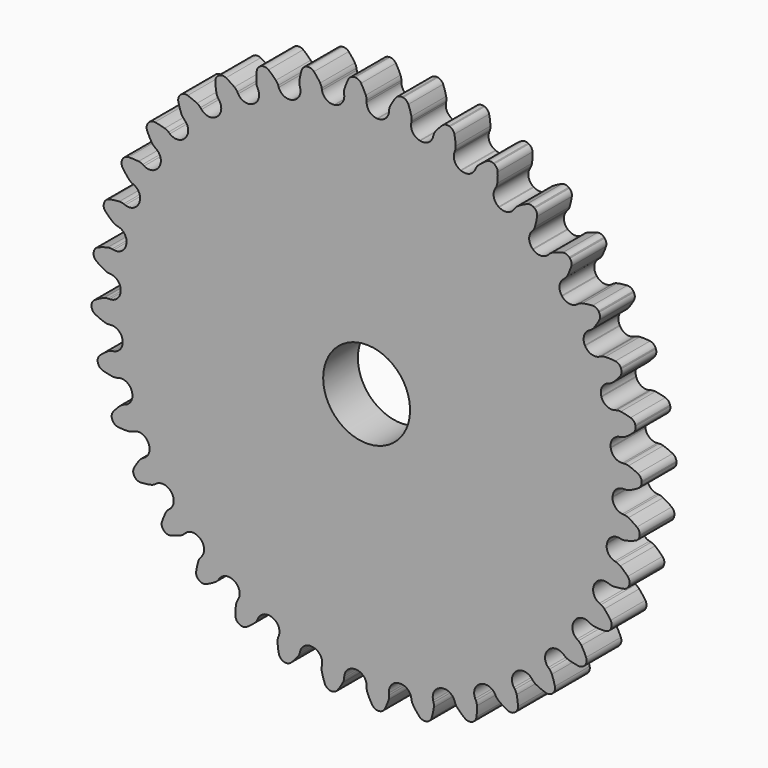
from build123d import *

# Parameters (mm, degrees)
F0_R      = 35.983333
F1_DEPTH  = 3.175
F1_FACE_R = 35.983333
F2_DEPTH  = 3.175
F4_DEPTH  = 6.35
F5_D      = 12.7


with BuildPart() as f1:
    # F0 (on Front) → F1 (new body)
    with BuildSketch(Plane.XZ):
        Circle(F0_R)
    extrude(amount=F1_DEPTH)

    # F1_face (on face) → F2 (join)
    with BuildSketch(Plane(origin=(0, 0, 0), x_dir=(1, 0, 0), z_dir=(0, 1, 0))):
        Circle(F1_FACE_R)
    extrude(amount=F2_DEPTH)

    # F3 (on face) → F4 (join)
    with BuildSketch(Plane.XZ.offset(3.175)):
        with BuildLine():
            ThreePointArc((-3.271589, 37.394439), (-3.615661, 36.26158), (-4.64799, 35.681879))
            ThreePointArc((-4.64799, 35.681879), (-4.696767, 35.675491), (-4.745536, 35.669037))
            ThreePointArc((-4.745536, 35.669037), (-7.788219, 35.130385), (-10.77347, 34.332676))
            ThreePointArc((-10.77347, 34.332676), (-10.820397, 34.317915), (-10.867304, 34.30309))
            ThreePointArc((-10.867304, 34.30309), (-13.770226, 33.244265), (-16.571603, 31.940292))
            ThreePointArc((-16.571603, 31.940292), (-16.615254, 31.917606), (-16.658874, 31.894861))
            ThreePointArc((-16.658874, 31.894861), (-19.333831, 30.348036), (-21.866217, 28.577418))
            ThreePointArc((-21.866217, 28.577418), (-21.905265, 28.547498), (-21.944273, 28.517524))
            ThreePointArc((-21.944273, 28.517524), (-24.309988, 26.529696), (-26.496437, 24.346234))
            ThreePointArc((-26.496437, 24.346234), (-26.529696, 24.309988), (-26.562906, 24.273695))
            ThreePointArc((-26.562906, 24.273695), (-28.547498, 21.905265), (-30.321575, 19.375302))
            ThreePointArc((-30.321575, 19.375302), (-30.348036, 19.333831), (-30.374439, 19.292323))
            ThreePointArc((-30.374439, 19.292323), (-31.917606, 16.615254), (-33.225408, 13.815662))
            ThreePointArc((-33.225408, 13.815662), (-33.244265, 13.770226), (-33.26306, 13.724764))
            ThreePointArc((-33.26306, 13.724764), (-34.317915, 10.820397), (-35.119704, 7.836239))
            ThreePointArc((-35.119704, 7.836239), (-35.130385, 7.788219), (-35.140999, 7.740184))
            ThreePointArc((-35.140999, 7.740184), (-35.675491, 4.696767), (-35.946906, 1.618716))
            ThreePointArc((-35.946906, 1.618716), (-35.949085, 1.569571), (-35.951197, 1.520423))
            ThreePointArc((-35.951197, 1.520423), (-35.949085, -1.569571), (-35.681879, -4.64799))
            ThreePointArc((-35.681879, -4.64799), (-35.675491, -4.696767), (-35.669037, -4.745536))
            ThreePointArc((-35.669037, -4.745536), (-35.130385, -7.788219), (-34.332676, -10.77347))
            ThreePointArc((-34.332676, -10.77347), (-34.317915, -10.820397), (-34.30309, -10.867304))
            ThreePointArc((-34.30309, -10.867304), (-33.244265, -13.770226), (-31.940292, -16.571603))
            ThreePointArc((-31.940292, -16.571603), (-31.917606, -16.615254), (-31.894861, -16.658874))
            ThreePointArc((-31.894861, -16.658874), (-30.348036, -19.333831), (-28.577418, -21.866217))
            ThreePointArc((-28.577418, -21.866217), (-28.547498, -21.905265), (-28.517524, -21.944273))
            ThreePointArc((-28.517524, -21.944273), (-26.529696, -24.309988), (-24.346234, -26.496437))
            ThreePointArc((-24.346234, -26.496437), (-24.309988, -26.529696), (-24.273695, -26.562906))
            ThreePointArc((-24.273695, -26.562906), (-21.905265, -28.547498), (-19.375302, -30.321575))
            ThreePointArc((-19.375302, -30.321575), (-19.333831, -30.348036), (-19.292323, -30.374439))
            ThreePointArc((-19.292323, -30.374439), (-16.615254, -31.917606), (-13.815662, -33.225408))
            ThreePointArc((-13.815662, -33.225408), (-13.770226, -33.244265), (-13.724764, -33.26306))
            ThreePointArc((-13.724764, -33.26306), (-10.820397, -34.317915), (-7.836239, -35.119704))
            ThreePointArc((-7.836239, -35.119704), (-7.788219, -35.130385), (-7.740184, -35.140999))
            ThreePointArc((-7.740184, -35.140999), (-4.696767, -35.675491), (-1.618716, -35.946906))
            ThreePointArc((-1.618716, -35.946906), (-1.569571, -35.949085), (-1.520423, -35.951197))
            ThreePointArc((-1.520423, -35.951197), (1.569571, -35.949085), (4.64799, -35.681879))
            ThreePointArc((4.64799, -35.681879), (4.696767, -35.675491), (4.745536, -35.669037))
            ThreePointArc((4.745536, -35.669037), (7.788219, -35.130385), (10.77347, -34.332676))
            ThreePointArc((10.77347, -34.332676), (10.820397, -34.317915), (10.867304, -34.30309))
            ThreePointArc((10.867304, -34.30309), (13.770226, -33.244265), (16.571603, -31.940292))
            ThreePointArc((16.571603, -31.940292), (16.615254, -31.917606), (16.658874, -31.894861))
            ThreePointArc((16.658874, -31.894861), (19.333831, -30.348036), (21.866217, -28.577418))
            ThreePointArc((21.866217, -28.577418), (21.905265, -28.547498), (21.944273, -28.517524))
            ThreePointArc((21.944273, -28.517524), (24.309988, -26.529696), (26.496437, -24.346234))
            ThreePointArc((26.496437, -24.346234), (26.529696, -24.309988), (26.562906, -24.273695))
            ThreePointArc((26.562906, -24.273695), (28.547498, -21.905265), (30.321575, -19.375302))
            ThreePointArc((30.321575, -19.375302), (30.348036, -19.333831), (30.374439, -19.292323))
            ThreePointArc((30.374439, -19.292323), (31.917606, -16.615254), (33.225408, -13.815662))
            ThreePointArc((33.225408, -13.815662), (33.244265, -13.770226), (33.26306, -13.724764))
            ThreePointArc((33.26306, -13.724764), (34.317915, -10.820397), (35.119704, -7.836239))
            ThreePointArc((35.119704, -7.836239), (35.130385, -7.788219), (35.140999, -7.740184))
            ThreePointArc((35.140999, -7.740184), (35.675491, -4.696767), (35.946906, -1.618716))
            ThreePointArc((35.946906, -1.618716), (35.949085, -1.569571), (35.951197, -1.520423))
            ThreePointArc((35.951197, -1.520423), (35.949085, 1.569571), (35.681879, 4.64799))
            ThreePointArc((35.681879, 4.64799), (35.675491, 4.696767), (35.669037, 4.745536))
            ThreePointArc((35.669037, 4.745536), (35.130385, 7.788219), (34.332676, 10.77347))
            ThreePointArc((34.332676, 10.77347), (34.317915, 10.820397), (34.30309, 10.867304))
            ThreePointArc((34.30309, 10.867304), (33.244265, 13.770226), (31.940292, 16.571603))
            ThreePointArc((31.940292, 16.571603), (31.917606, 16.615254), (31.894861, 16.658874))
            ThreePointArc((31.894861, 16.658874), (30.348036, 19.333831), (28.577418, 21.866217))
            ThreePointArc((28.577418, 21.866217), (28.547498, 21.905265), (28.517524, 21.944273))
            ThreePointArc((28.517524, 21.944273), (26.529696, 24.309988), (24.346234, 26.496437))
            ThreePointArc((24.346234, 26.496437), (24.309988, 26.529696), (24.273695, 26.562906))
            ThreePointArc((24.273695, 26.562906), (21.905265, 28.547498), (19.375302, 30.321575))
            ThreePointArc((19.375302, 30.321575), (19.333831, 30.348036), (19.292323, 30.374439))
            ThreePointArc((19.292323, 30.374439), (16.615254, 31.917606), (13.815662, 33.225408))
            ThreePointArc((13.815662, 33.225408), (13.770226, 33.244265), (13.724764, 33.26306))
            ThreePointArc((13.724764, 33.26306), (10.820397, 34.317915), (7.836239, 35.119704))
            ThreePointArc((7.836239, 35.119704), (7.788219, 35.130385), (7.740184, 35.140999))
            ThreePointArc((7.740184, 35.140999), (4.696767, 35.675491), (1.618716, 35.946906))
            ThreePointArc((1.618716, 35.946906), (1.569571, 35.949085), (1.520423, 35.951197))
            ThreePointArc((1.520423, 35.951197), (0.441498, 36.438719), (0, 37.53728))
            Line((0, 37.53728), (0, 37.791324))
            ThreePointArc((0, 37.791324), (-0.032064, 38.108773), (-0.126959, 38.413399))
            ThreePointArc((-0.126959, 38.413399), (-0.442541, 39.081247), (-0.808925, 39.722632))
            ThreePointArc((-0.808925, 39.722632), (-1.178043, 40.073289), (-1.670928, 40.200853))
            Line((-1.670928, 40.200853), (-1.755207, 40.200853))
            Line((-1.755207, 40.200853), (-1.839165, 40.193507))
            ThreePointArc((-1.839165, 40.193507), (-2.319057, 40.023472), (-2.656208, 39.641978))
            ThreePointArc((-2.656208, 39.641978), (-2.965298, 38.971101), (-3.221472, 38.278289))
            ThreePointArc((-3.221472, 38.278289), (-3.289457, 37.966552), (-3.293731, 37.647516))
            Line((-3.293731, 37.647516), (-3.271589, 37.394439))
        make_face()
        with BuildLine():
            ThreePointArc((-10.77347, 34.332676), (-7.788219, 35.130385), (-4.745536, 35.669037))
            ThreePointArc((-4.745536, 35.669037), (-5.892727, 35.961798), (-6.51828, 36.967004))
            Line((-6.51828, 36.967004), (-6.562394, 37.217188))
            ThreePointArc((-6.562394, 37.217188), (-6.649095, 37.524247), (-6.795447, 37.807767))
            ThreePointArc((-6.795447, 37.807767), (-7.222205, 38.410668), (-7.694399, 38.978688))
            ThreePointArc((-7.694399, 38.978688), (-8.1188, 39.259921), (-8.626348, 39.299958))
            Line((-8.626348, 39.299958), (-8.709346, 39.285323))
            Line((-8.709346, 39.285323), (-8.790753, 39.26351))
            ThreePointArc((-8.790753, 39.26351), (-9.233828, 39.012725), (-9.499612, 38.578482))
            ThreePointArc((-9.499612, 38.578482), (-9.687509, 37.864124), (-9.819486, 37.137353))
            ThreePointArc((-9.819486, 37.137353), (-9.832305, 36.818547), (-9.781114, 36.503615))
            Line((-9.781114, 36.503615), (-9.715363, 36.258228))
            ThreePointArc((-9.715363, 36.258228), (-9.857489, 35.082832), (-10.77347, 34.332676))
        make_face()
        with BuildLine():
            ThreePointArc((-16.571603, 31.940292), (-13.770226, 33.244265), (-10.867304, 34.30309))
            ThreePointArc((-10.867304, 34.30309), (-12.047904, 34.392197), (-12.838506, 35.273505))
            Line((-12.838506, 35.273505), (-12.925394, 35.512228))
            ThreePointArc((-12.925394, 35.512228), (-13.064098, 35.799566), (-13.257459, 36.053365))
            ThreePointArc((-13.257459, 36.053365), (-13.782426, 36.573001), (-14.346082, 37.050396))
            ThreePointArc((-14.346082, 37.050396), (-14.81287, 37.25366), (-15.31966, 37.204953))
            Line((-15.31966, 37.204953), (-15.398857, 37.176128))
            Line((-15.398857, 37.176128), (-15.475239, 37.140511))
            ThreePointArc((-15.475239, 37.140511), (-15.868034, 36.816597), (-16.054374, 36.342797))
            ThreePointArc((-16.054374, 36.342797), (-16.11537, 35.606664), (-16.119139, 34.868018))
            ThreePointArc((-16.119139, 34.868018), (-16.076404, 34.551828), (-15.971303, 34.250571))
            Line((-15.971303, 34.250571), (-15.86394, 34.020329))
            ThreePointArc((-15.86394, 34.020329), (-15.799801, 32.83811), (-16.571603, 31.940292))
        make_face()
        with BuildLine():
            ThreePointArc((-21.866217, 28.577418), (-19.333831, 30.348036), (-16.658874, 31.894861))
            ThreePointArc((-16.658874, 31.894861), (-17.837011, 31.777605), (-18.76864, 32.508238))
            Line((-18.76864, 32.508238), (-18.895662, 32.728246))
            ThreePointArc((-18.895662, 32.728246), (-19.082154, 32.987134), (-19.316649, 33.203499))
            ThreePointArc((-19.316649, 33.203499), (-19.923875, 33.624082), (-20.561866, 33.996346))
            ThreePointArc((-20.561866, 33.996346), (-21.05686, 34.115465), (-21.547493, 33.979495))
            Line((-21.547493, 33.979495), (-21.62048, 33.937356))
            Line((-21.62048, 33.937356), (-21.689517, 33.889016))
            ThreePointArc((-21.689517, 33.889016), (-22.020098, 33.501815), (-22.121333, 33.002856))
            ThreePointArc((-22.121333, 33.002856), (-22.053574, 32.267314), (-21.929021, 31.539235))
            ThreePointArc((-21.929021, 31.539235), (-21.832029, 31.23527), (-21.676213, 30.95684))
            Line((-21.676213, 30.95684), (-21.530499, 30.748739))
            ThreePointArc((-21.530499, 30.748739), (-21.262044, 29.595618), (-21.866217, 28.577418))
        make_face()
        with BuildLine():
            ThreePointArc((-26.496437, 24.346234), (-24.309988, 26.529696), (-21.944273, 28.517524))
            ThreePointArc((-21.944273, 28.517524), (-23.08415, 28.197468), (-24.128498, 28.755224))
            Line((-24.128498, 28.755224), (-24.291795, 28.949833))
            ThreePointArc((-24.291795, 28.949833), (-24.520409, 29.172404), (-24.788913, 29.344763))
            ThreePointArc((-24.788913, 29.344763), (-25.459947, 29.653512), (-26.152889, 29.909334))
            ThreePointArc((-26.152889, 29.909334), (-26.661047, 29.940689), (-27.120615, 29.721588))
            Line((-27.120615, 29.721588), (-27.185177, 29.667414))
            Line((-27.185177, 29.667414), (-27.244771, 29.60782))
            ThreePointArc((-27.244771, 29.60782), (-27.503092, 29.169097), (-27.516146, 28.660139))
            ThreePointArc((-27.516146, 28.660139), (-27.321691, 27.947538), (-27.072601, 27.252148))
            ThreePointArc((-27.072601, 27.252148), (-26.924299, 26.969644), (-26.722501, 26.722501))
            Line((-26.722501, 26.722501), (-26.542865, 26.542865))
            ThreePointArc((-26.542865, 26.542865), (-26.078251, 25.453879), (-26.496437, 24.346234))
        make_face()
        with BuildLine():
            ThreePointArc((-30.321575, 19.375302), (-28.547498, 21.905265), (-26.562906, 24.273695))
            ThreePointArc((-26.562906, 24.273695), (-27.629889, 23.760564), (-28.755224, 24.128498))
            Line((-28.755224, 24.128498), (-28.949833, 24.291795))
            ThreePointArc((-28.949833, 24.291795), (-29.213624, 24.471285), (-29.507978, 24.5944))
            ThreePointArc((-29.507978, 24.5944), (-30.222432, 24.781935), (-30.949269, 24.913543))
            ThreePointArc((-30.949269, 24.913543), (-31.455152, 24.856181), (-31.869692, 24.560605))
            Line((-31.869692, 24.560605), (-31.923865, 24.496043))
            Line((-31.923865, 24.496043), (-31.972205, 24.427006))
            ThreePointArc((-31.972205, 24.427006), (-32.150419, 23.950091), (-32.074895, 23.446599))
            ThreePointArc((-32.074895, 23.446599), (-31.759652, 22.77859), (-31.393593, 22.137019))
            ThreePointArc((-31.393593, 22.137019), (-31.198488, 21.884559), (-30.95684, 21.676213))
            Line((-30.95684, 21.676213), (-30.748739, 21.530499))
            ThreePointArc((-30.748739, 21.530499), (-30.102084, 20.538737), (-30.321575, 19.375302))
        make_face()
        with BuildLine():
            ThreePointArc((-33.225408, 13.815662), (-31.917606, 16.615254), (-30.374439, 19.292323))
            ThreePointArc((-30.374439, 19.292323), (-31.336107, 18.601708), (-32.508238, 18.76864))
            Line((-32.508238, 18.76864), (-32.728246, 18.895662))
            ThreePointArc((-32.728246, 18.895662), (-33.019197, 19.026618), (-33.330459, 19.096749))
            ThreePointArc((-33.330459, 19.096749), (-34.066623, 19.157372), (-34.805271, 19.160766))
            ThreePointArc((-34.805271, 19.160766), (-35.293508, 19.01643), (-35.650424, 18.65336))
            Line((-35.650424, 18.65336), (-35.692563, 18.580372))
            Line((-35.692563, 18.580372), (-35.728181, 18.50399))
            ThreePointArc((-35.728181, 18.50399), (-35.820872, 18.003373), (-35.659064, 17.520645))
            ThreePointArc((-35.659064, 17.520645), (-35.232612, 16.917527), (-34.760707, 16.349268))
            ThreePointArc((-34.760707, 16.349268), (-34.524727, 16.134523), (-34.250571, 15.971303))
            Line((-34.250571, 15.971303), (-34.020329, 15.86394))
            ThreePointArc((-34.020329, 15.86394), (-33.21128, 14.999535), (-33.225408, 13.815662))
        make_face()
        with BuildLine():
            ThreePointArc((-35.119704, 7.836239), (-34.317915, 10.820397), (-33.26306, 13.724764))
            ThreePointArc((-33.26306, 13.724764), (-34.090194, 12.877648), (-35.273505, 12.838506))
            Line((-35.273505, 12.838506), (-35.512228, 12.925394))
            ThreePointArc((-35.512228, 12.925394), (-35.821499, 13.003838), (-36.14021, 13.018853))
            ThreePointArc((-36.14021, 13.018853), (-36.875717, 12.950721), (-37.603733, 12.825799))
            ThreePointArc((-37.603733, 12.825799), (-38.059489, 12.598874), (-38.347936, 12.179342))
            Line((-38.347936, 12.179342), (-38.376761, 12.100146))
            Line((-38.376761, 12.100146), (-38.398574, 12.018739))
            ThreePointArc((-38.398574, 12.018739), (-38.402925, 11.509633), (-38.159751, 11.062336))
            ThreePointArc((-38.159751, 11.062336), (-37.635048, 10.542433), (-37.071634, 10.064752))
            ThreePointArc((-37.071634, 10.064752), (-36.801949, 9.894247), (-36.503615, 9.781114))
            Line((-36.503615, 9.781114), (-36.258228, 9.715363))
            ThreePointArc((-36.258228, 9.715363), (-35.311368, 9.00458), (-35.119704, 7.836239))
        make_face()
        with BuildLine():
            ThreePointArc((3.271589, 37.394439), (2.736026, 36.338538), (1.618716, 35.946906))
            ThreePointArc((1.618716, 35.946906), (4.696767, 35.675491), (7.740184, 35.140999))
            ThreePointArc((7.740184, 35.140999), (6.762308, 35.808468), (6.51828, 36.967004))
            Line((6.51828, 36.967004), (6.562394, 37.217188))
            ThreePointArc((6.562394, 37.217188), (6.585942, 37.535383), (6.545386, 37.851859))
            ThreePointArc((6.545386, 37.851859), (6.35057, 38.564361), (6.101127, 39.259625))
            ThreePointArc((6.101127, 39.259625), (5.798508, 39.669051), (5.335262, 39.880265))
            Line((5.335262, 39.880265), (5.252263, 39.8949))
            Line((5.252263, 39.8949), (5.168305, 39.902245))
            ThreePointArc((5.168305, 39.902245), (4.666177, 39.818125), (4.267903, 39.500973))
            ThreePointArc((4.267903, 39.500973), (3.847012, 38.893961), (3.474425, 38.256159))
            ThreePointArc((3.474425, 38.256159), (3.35334, 37.960963), (3.293731, 37.647516))
            Line((3.293731, 37.647516), (3.271589, 37.394439))
        make_face()
        with BuildLine():
            ThreePointArc((-35.946906, 1.618716), (-35.675491, 4.696767), (-35.140999, 7.740184))
            ThreePointArc((-35.140999, 7.740184), (-35.808468, 6.762308), (-36.967004, 6.51828))
            Line((-36.967004, 6.51828), (-37.217188, 6.562394))
            ThreePointArc((-37.217188, 6.562394), (-37.535383, 6.585942), (-37.851859, 6.545386))
            ThreePointArc((-37.851859, 6.545386), (-38.564361, 6.35057), (-39.259625, 6.101127))
            ThreePointArc((-39.259625, 6.101127), (-39.669051, 5.798508), (-39.880265, 5.335262))
            Line((-39.880265, 5.335262), (-39.8949, 5.252263))
            Line((-39.8949, 5.252263), (-39.902245, 5.168305))
            ThreePointArc((-39.902245, 5.168305), (-39.818125, 4.666177), (-39.500973, 4.267903))
            ThreePointArc((-39.500973, 4.267903), (-38.893961, 3.847012), (-38.256159, 3.474425))
            ThreePointArc((-38.256159, 3.474425), (-37.960963, 3.35334), (-37.647516, 3.293731))
            Line((-37.647516, 3.293731), (-37.394439, 3.271589))
            ThreePointArc((-37.394439, 3.271589), (-36.338538, 2.736026), (-35.946906, 1.618716))
        make_face()
        with BuildLine():
            ThreePointArc((9.715363, 36.258228), (9.00458, 35.311368), (7.836239, 35.119704))
            ThreePointArc((7.836239, 35.119704), (10.820397, 34.317915), (13.724764, 33.26306))
            ThreePointArc((13.724764, 33.26306), (12.877648, 34.090194), (12.838506, 35.273505))
            Line((12.838506, 35.273505), (12.925394, 35.512228))
            ThreePointArc((12.925394, 35.512228), (13.003838, 35.821499), (13.018853, 36.14021))
            ThreePointArc((13.018853, 36.14021), (12.950721, 36.875717), (12.825799, 37.603733))
            ThreePointArc((12.825799, 37.603733), (12.598874, 38.059489), (12.179342, 38.347936))
            Line((12.179342, 38.347936), (12.100146, 38.376761))
            Line((12.100146, 38.376761), (12.018739, 38.398574))
            ThreePointArc((12.018739, 38.398574), (11.509633, 38.402925), (11.062336, 38.159751))
            ThreePointArc((11.062336, 38.159751), (10.542433, 37.635048), (10.064752, 37.071634))
            ThreePointArc((10.064752, 37.071634), (9.894247, 36.801949), (9.781114, 36.503615))
            Line((9.781114, 36.503615), (9.715363, 36.258228))
        make_face()
        with BuildLine():
            ThreePointArc((-35.681879, -4.64799), (-35.949085, -1.569571), (-35.951197, 1.520423))
            ThreePointArc((-35.951197, 1.520423), (-36.438719, 0.441498), (-37.53728, 0))
            Line((-37.53728, 0), (-37.791324, 0))
            ThreePointArc((-37.791324, 0), (-38.108773, -0.032064), (-38.413399, -0.126959))
            ThreePointArc((-38.413399, -0.126959), (-39.081247, -0.442541), (-39.722632, -0.808925))
            ThreePointArc((-39.722632, -0.808925), (-40.073289, -1.178043), (-40.200853, -1.670928))
            Line((-40.200853, -1.670928), (-40.200853, -1.755207))
            Line((-40.200853, -1.755207), (-40.193507, -1.839165))
            ThreePointArc((-40.193507, -1.839165), (-40.023472, -2.319057), (-39.641978, -2.656208))
            ThreePointArc((-39.641978, -2.656208), (-38.971101, -2.965298), (-38.278289, -3.221472))
            ThreePointArc((-38.278289, -3.221472), (-37.966552, -3.289457), (-37.647516, -3.293731))
            Line((-37.647516, -3.293731), (-37.394439, -3.271589))
            ThreePointArc((-37.394439, -3.271589), (-36.26158, -3.615661), (-35.681879, -4.64799))
        make_face()
        with BuildLine():
            ThreePointArc((15.86394, 34.020329), (14.999535, 33.21128), (13.815662, 33.225408))
            ThreePointArc((13.815662, 33.225408), (16.615254, 31.917606), (19.292323, 30.374439))
            ThreePointArc((19.292323, 30.374439), (18.601708, 31.336107), (18.76864, 32.508238))
            Line((18.76864, 32.508238), (18.895662, 32.728246))
            ThreePointArc((18.895662, 32.728246), (19.026618, 33.019197), (19.096749, 33.330459))
            ThreePointArc((19.096749, 33.330459), (19.157372, 34.066623), (19.160766, 34.805271))
            ThreePointArc((19.160766, 34.805271), (19.01643, 35.293508), (18.65336, 35.650424))
            Line((18.65336, 35.650424), (18.580372, 35.692563))
            Line((18.580372, 35.692563), (18.50399, 35.728181))
            ThreePointArc((18.50399, 35.728181), (18.003373, 35.820872), (17.520645, 35.659064))
            ThreePointArc((17.520645, 35.659064), (16.917527, 35.232612), (16.349268, 34.760707))
            ThreePointArc((16.349268, 34.760707), (16.134523, 34.524727), (15.971303, 34.250571))
            Line((15.971303, 34.250571), (15.86394, 34.020329))
        make_face()
        with BuildLine():
            ThreePointArc((-34.332676, -10.77347), (-35.130385, -7.788219), (-35.669037, -4.745536))
            ThreePointArc((-35.669037, -4.745536), (-35.961798, -5.892727), (-36.967004, -6.51828))
            Line((-36.967004, -6.51828), (-37.217188, -6.562394))
            ThreePointArc((-37.217188, -6.562394), (-37.524247, -6.649095), (-37.807767, -6.795447))
            ThreePointArc((-37.807767, -6.795447), (-38.410668, -7.222205), (-38.978688, -7.694399))
            ThreePointArc((-38.978688, -7.694399), (-39.259921, -8.1188), (-39.299958, -8.626348))
            Line((-39.299958, -8.626348), (-39.285323, -8.709346))
            Line((-39.285323, -8.709346), (-39.26351, -8.790753))
            ThreePointArc((-39.26351, -8.790753), (-39.012725, -9.233828), (-38.578482, -9.499612))
            ThreePointArc((-38.578482, -9.499612), (-37.864124, -9.687509), (-37.137353, -9.819486))
            ThreePointArc((-37.137353, -9.819486), (-36.818547, -9.832305), (-36.503615, -9.781114))
            Line((-36.503615, -9.781114), (-36.258228, -9.715363))
            ThreePointArc((-36.258228, -9.715363), (-35.082832, -9.857489), (-34.332676, -10.77347))
        make_face()
        with BuildLine():
            ThreePointArc((21.530499, 30.748739), (20.538737, 30.102084), (19.375302, 30.321575))
            ThreePointArc((19.375302, 30.321575), (21.905265, 28.547498), (24.273695, 26.562906))
            ThreePointArc((24.273695, 26.562906), (23.760564, 27.629889), (24.128498, 28.755224))
            Line((24.128498, 28.755224), (24.291795, 28.949833))
            ThreePointArc((24.291795, 28.949833), (24.471285, 29.213624), (24.5944, 29.507978))
            ThreePointArc((24.5944, 29.507978), (24.781935, 30.222432), (24.913543, 30.949269))
            ThreePointArc((24.913543, 30.949269), (24.856181, 31.455152), (24.560605, 31.869692))
            Line((24.560605, 31.869692), (24.496043, 31.923865))
            Line((24.496043, 31.923865), (24.427006, 31.972205))
            ThreePointArc((24.427006, 31.972205), (23.950091, 32.150419), (23.446599, 32.074895))
            ThreePointArc((23.446599, 32.074895), (22.77859, 31.759652), (22.137019, 31.393593))
            ThreePointArc((22.137019, 31.393593), (21.884559, 31.198488), (21.676213, 30.95684))
            Line((21.676213, 30.95684), (21.530499, 30.748739))
        make_face()
        with BuildLine():
            ThreePointArc((-31.940292, -16.571603), (-33.244265, -13.770226), (-34.30309, -10.867304))
            ThreePointArc((-34.30309, -10.867304), (-34.392197, -12.047904), (-35.273505, -12.838506))
            Line((-35.273505, -12.838506), (-35.512228, -12.925394))
            ThreePointArc((-35.512228, -12.925394), (-35.799566, -13.064098), (-36.053365, -13.257459))
            ThreePointArc((-36.053365, -13.257459), (-36.573001, -13.782426), (-37.050396, -14.346082))
            ThreePointArc((-37.050396, -14.346082), (-37.25366, -14.81287), (-37.204953, -15.31966))
            Line((-37.204953, -15.31966), (-37.176128, -15.398857))
            Line((-37.176128, -15.398857), (-37.140511, -15.475239))
            ThreePointArc((-37.140511, -15.475239), (-36.816597, -15.868034), (-36.342797, -16.054374))
            ThreePointArc((-36.342797, -16.054374), (-35.606664, -16.11537), (-34.868018, -16.119139))
            ThreePointArc((-34.868018, -16.119139), (-34.551828, -16.076404), (-34.250571, -15.971303))
            Line((-34.250571, -15.971303), (-34.020329, -15.86394))
            ThreePointArc((-34.020329, -15.86394), (-32.83811, -15.799801), (-31.940292, -16.571603))
        make_face()
        with BuildLine():
            ThreePointArc((26.542865, 26.542865), (25.453879, 26.078251), (24.346234, 26.496437))
            ThreePointArc((24.346234, 26.496437), (26.529696, 24.309988), (28.517524, 21.944273))
            ThreePointArc((28.517524, 21.944273), (28.197468, 23.08415), (28.755224, 24.128498))
            Line((28.755224, 24.128498), (28.949833, 24.291795))
            ThreePointArc((28.949833, 24.291795), (29.172404, 24.520409), (29.344763, 24.788913))
            ThreePointArc((29.344763, 24.788913), (29.653512, 25.459947), (29.909334, 26.152889))
            ThreePointArc((29.909334, 26.152889), (29.940689, 26.661047), (29.721588, 27.120615))
            Line((29.721588, 27.120615), (29.667414, 27.185177))
            Line((29.667414, 27.185177), (29.60782, 27.244771))
            ThreePointArc((29.60782, 27.244771), (29.169097, 27.503092), (28.660139, 27.516146))
            ThreePointArc((28.660139, 27.516146), (27.947538, 27.321691), (27.252148, 27.072601))
            ThreePointArc((27.252148, 27.072601), (26.969644, 26.924299), (26.722501, 26.722501))
            Line((26.722501, 26.722501), (26.542865, 26.542865))
        make_face()
        with BuildLine():
            ThreePointArc((-28.577418, -21.866217), (-30.348036, -19.333831), (-31.894861, -16.658874))
            ThreePointArc((-31.894861, -16.658874), (-31.777605, -17.837011), (-32.508238, -18.76864))
            Line((-32.508238, -18.76864), (-32.728246, -18.895662))
            ThreePointArc((-32.728246, -18.895662), (-32.987134, -19.082154), (-33.203499, -19.316649))
            ThreePointArc((-33.203499, -19.316649), (-33.624082, -19.923875), (-33.996346, -20.561866))
            ThreePointArc((-33.996346, -20.561866), (-34.115465, -21.05686), (-33.979495, -21.547493))
            Line((-33.979495, -21.547493), (-33.937356, -21.62048))
            Line((-33.937356, -21.62048), (-33.889016, -21.689517))
            ThreePointArc((-33.889016, -21.689517), (-33.501815, -22.020098), (-33.002856, -22.121333))
            ThreePointArc((-33.002856, -22.121333), (-32.267314, -22.053574), (-31.539235, -21.929021))
            ThreePointArc((-31.539235, -21.929021), (-31.23527, -21.832029), (-30.95684, -21.676213))
            Line((-30.95684, -21.676213), (-30.748739, -21.530499))
            ThreePointArc((-30.748739, -21.530499), (-29.595618, -21.262044), (-28.577418, -21.866217))
        make_face()
        with BuildLine():
            ThreePointArc((30.748739, 21.530499), (29.595618, 21.262044), (28.577418, 21.866217))
            ThreePointArc((28.577418, 21.866217), (30.348036, 19.333831), (31.894861, 16.658874))
            ThreePointArc((31.894861, 16.658874), (31.777605, 17.837011), (32.508238, 18.76864))
            Line((32.508238, 18.76864), (32.728246, 18.895662))
            ThreePointArc((32.728246, 18.895662), (32.987134, 19.082154), (33.203499, 19.316649))
            ThreePointArc((33.203499, 19.316649), (33.624082, 19.923875), (33.996346, 20.561866))
            ThreePointArc((33.996346, 20.561866), (34.115465, 21.05686), (33.979495, 21.547493))
            Line((33.979495, 21.547493), (33.937356, 21.62048))
            Line((33.937356, 21.62048), (33.889016, 21.689517))
            ThreePointArc((33.889016, 21.689517), (33.501815, 22.020098), (33.002856, 22.121333))
            ThreePointArc((33.002856, 22.121333), (32.267314, 22.053574), (31.539235, 21.929021))
            ThreePointArc((31.539235, 21.929021), (31.23527, 21.832029), (30.95684, 21.676213))
            Line((30.95684, 21.676213), (30.748739, 21.530499))
        make_face()
        with BuildLine():
            ThreePointArc((-24.346234, -26.496437), (-26.529696, -24.309988), (-28.517524, -21.944273))
            ThreePointArc((-28.517524, -21.944273), (-28.197468, -23.08415), (-28.755224, -24.128498))
            Line((-28.755224, -24.128498), (-28.949833, -24.291795))
            ThreePointArc((-28.949833, -24.291795), (-29.172404, -24.520409), (-29.344763, -24.788913))
            ThreePointArc((-29.344763, -24.788913), (-29.653512, -25.459947), (-29.909334, -26.152889))
            ThreePointArc((-29.909334, -26.152889), (-29.940689, -26.661047), (-29.721588, -27.120615))
            Line((-29.721588, -27.120615), (-29.667414, -27.185177))
            Line((-29.667414, -27.185177), (-29.60782, -27.244771))
            ThreePointArc((-29.60782, -27.244771), (-29.169097, -27.503092), (-28.660139, -27.516146))
            ThreePointArc((-28.660139, -27.516146), (-27.947538, -27.321691), (-27.252148, -27.072601))
            ThreePointArc((-27.252148, -27.072601), (-26.969644, -26.924299), (-26.722501, -26.722501))
            Line((-26.722501, -26.722501), (-26.542865, -26.542865))
            ThreePointArc((-26.542865, -26.542865), (-25.453879, -26.078251), (-24.346234, -26.496437))
        make_face()
        with BuildLine():
            ThreePointArc((34.020329, 15.86394), (32.83811, 15.799801), (31.940292, 16.571603))
            ThreePointArc((31.940292, 16.571603), (33.244265, 13.770226), (34.30309, 10.867304))
            ThreePointArc((34.30309, 10.867304), (34.392197, 12.047904), (35.273505, 12.838506))
            Line((35.273505, 12.838506), (35.512228, 12.925394))
            ThreePointArc((35.512228, 12.925394), (35.799566, 13.064098), (36.053365, 13.257459))
            ThreePointArc((36.053365, 13.257459), (36.573001, 13.782426), (37.050396, 14.346082))
            ThreePointArc((37.050396, 14.346082), (37.25366, 14.81287), (37.204953, 15.31966))
            Line((37.204953, 15.31966), (37.176128, 15.398857))
            Line((37.176128, 15.398857), (37.140511, 15.475239))
            ThreePointArc((37.140511, 15.475239), (36.816597, 15.868034), (36.342797, 16.054374))
            ThreePointArc((36.342797, 16.054374), (35.606664, 16.11537), (34.868018, 16.119139))
            ThreePointArc((34.868018, 16.119139), (34.551828, 16.076404), (34.250571, 15.971303))
            Line((34.250571, 15.971303), (34.020329, 15.86394))
        make_face()
        with BuildLine():
            ThreePointArc((-19.375302, -30.321575), (-21.905265, -28.547498), (-24.273695, -26.562906))
            ThreePointArc((-24.273695, -26.562906), (-23.760564, -27.629889), (-24.128498, -28.755224))
            Line((-24.128498, -28.755224), (-24.291795, -28.949833))
            ThreePointArc((-24.291795, -28.949833), (-24.471285, -29.213624), (-24.5944, -29.507978))
            ThreePointArc((-24.5944, -29.507978), (-24.781935, -30.222432), (-24.913543, -30.949269))
            ThreePointArc((-24.913543, -30.949269), (-24.856181, -31.455152), (-24.560605, -31.869692))
            Line((-24.560605, -31.869692), (-24.496043, -31.923865))
            Line((-24.496043, -31.923865), (-24.427006, -31.972205))
            ThreePointArc((-24.427006, -31.972205), (-23.950091, -32.150419), (-23.446599, -32.074895))
            ThreePointArc((-23.446599, -32.074895), (-22.77859, -31.759652), (-22.137019, -31.393593))
            ThreePointArc((-22.137019, -31.393593), (-21.884559, -31.198488), (-21.676213, -30.95684))
            Line((-21.676213, -30.95684), (-21.530499, -30.748739))
            ThreePointArc((-21.530499, -30.748739), (-20.538737, -30.102084), (-19.375302, -30.321575))
        make_face()
        with BuildLine():
            ThreePointArc((36.258228, 9.715363), (35.082832, 9.857489), (34.332676, 10.77347))
            ThreePointArc((34.332676, 10.77347), (35.130385, 7.788219), (35.669037, 4.745536))
            ThreePointArc((35.669037, 4.745536), (35.961798, 5.892727), (36.967004, 6.51828))
            Line((36.967004, 6.51828), (37.217188, 6.562394))
            ThreePointArc((37.217188, 6.562394), (37.524247, 6.649095), (37.807767, 6.795447))
            ThreePointArc((37.807767, 6.795447), (38.410668, 7.222205), (38.978688, 7.694399))
            ThreePointArc((38.978688, 7.694399), (39.259921, 8.1188), (39.299958, 8.626348))
            Line((39.299958, 8.626348), (39.285323, 8.709346))
            Line((39.285323, 8.709346), (39.26351, 8.790753))
            ThreePointArc((39.26351, 8.790753), (39.012725, 9.233828), (38.578482, 9.499612))
            ThreePointArc((38.578482, 9.499612), (37.864124, 9.687509), (37.137353, 9.819486))
            ThreePointArc((37.137353, 9.819486), (36.818547, 9.832305), (36.503615, 9.781114))
            Line((36.503615, 9.781114), (36.258228, 9.715363))
        make_face()
        with BuildLine():
            ThreePointArc((-13.815662, -33.225408), (-16.615254, -31.917606), (-19.292323, -30.374439))
            ThreePointArc((-19.292323, -30.374439), (-18.601708, -31.336107), (-18.76864, -32.508238))
            Line((-18.76864, -32.508238), (-18.895662, -32.728246))
            ThreePointArc((-18.895662, -32.728246), (-19.026618, -33.019197), (-19.096749, -33.330459))
            ThreePointArc((-19.096749, -33.330459), (-19.157372, -34.066623), (-19.160766, -34.805271))
            ThreePointArc((-19.160766, -34.805271), (-19.01643, -35.293508), (-18.65336, -35.650424))
            Line((-18.65336, -35.650424), (-18.580372, -35.692563))
            Line((-18.580372, -35.692563), (-18.50399, -35.728181))
            ThreePointArc((-18.50399, -35.728181), (-18.003373, -35.820872), (-17.520645, -35.659064))
            ThreePointArc((-17.520645, -35.659064), (-16.917527, -35.232612), (-16.349268, -34.760707))
            ThreePointArc((-16.349268, -34.760707), (-16.134523, -34.524727), (-15.971303, -34.250571))
            Line((-15.971303, -34.250571), (-15.86394, -34.020329))
            ThreePointArc((-15.86394, -34.020329), (-14.999535, -33.21128), (-13.815662, -33.225408))
        make_face()
        with BuildLine():
            ThreePointArc((37.394439, 3.271589), (36.26158, 3.615661), (35.681879, 4.64799))
            ThreePointArc((35.681879, 4.64799), (35.949085, 1.569571), (35.951197, -1.520423))
            ThreePointArc((35.951197, -1.520423), (36.438719, -0.441498), (37.53728, 0))
            Line((37.53728, 0), (37.791324, 0))
            ThreePointArc((37.791324, 0), (38.108773, 0.032064), (38.413399, 0.126959))
            ThreePointArc((38.413399, 0.126959), (39.081247, 0.442541), (39.722632, 0.808925))
            ThreePointArc((39.722632, 0.808925), (40.073289, 1.178043), (40.200853, 1.670928))
            Line((40.200853, 1.670928), (40.200853, 1.755207))
            Line((40.200853, 1.755207), (40.193507, 1.839165))
            ThreePointArc((40.193507, 1.839165), (40.023472, 2.319057), (39.641978, 2.656208))
            ThreePointArc((39.641978, 2.656208), (38.971101, 2.965298), (38.278289, 3.221472))
            ThreePointArc((38.278289, 3.221472), (37.966552, 3.289457), (37.647516, 3.293731))
            Line((37.647516, 3.293731), (37.394439, 3.271589))
        make_face()
        with BuildLine():
            ThreePointArc((-7.836239, -35.119704), (-10.820397, -34.317915), (-13.724764, -33.26306))
            ThreePointArc((-13.724764, -33.26306), (-12.877648, -34.090194), (-12.838506, -35.273505))
            Line((-12.838506, -35.273505), (-12.925394, -35.512228))
            ThreePointArc((-12.925394, -35.512228), (-13.003838, -35.821499), (-13.018853, -36.14021))
            ThreePointArc((-13.018853, -36.14021), (-12.950721, -36.875717), (-12.825799, -37.603733))
            ThreePointArc((-12.825799, -37.603733), (-12.598874, -38.059489), (-12.179342, -38.347936))
            Line((-12.179342, -38.347936), (-12.100146, -38.376761))
            Line((-12.100146, -38.376761), (-12.018739, -38.398574))
            ThreePointArc((-12.018739, -38.398574), (-11.509633, -38.402925), (-11.062336, -38.159751))
            ThreePointArc((-11.062336, -38.159751), (-10.542433, -37.635048), (-10.064752, -37.071634))
            ThreePointArc((-10.064752, -37.071634), (-9.894247, -36.801949), (-9.781114, -36.503615))
            Line((-9.781114, -36.503615), (-9.715363, -36.258228))
            ThreePointArc((-9.715363, -36.258228), (-9.00458, -35.311368), (-7.836239, -35.119704))
        make_face()
        with BuildLine():
            ThreePointArc((37.394439, -3.271589), (36.338538, -2.736026), (35.946906, -1.618716))
            ThreePointArc((35.946906, -1.618716), (35.675491, -4.696767), (35.140999, -7.740184))
            ThreePointArc((35.140999, -7.740184), (35.808468, -6.762308), (36.967004, -6.51828))
            Line((36.967004, -6.51828), (37.217188, -6.562394))
            ThreePointArc((37.217188, -6.562394), (37.535383, -6.585942), (37.851859, -6.545386))
            ThreePointArc((37.851859, -6.545386), (38.564361, -6.35057), (39.259625, -6.101127))
            ThreePointArc((39.259625, -6.101127), (39.669051, -5.798508), (39.880265, -5.335262))
            Line((39.880265, -5.335262), (39.8949, -5.252263))
            Line((39.8949, -5.252263), (39.902245, -5.168305))
            ThreePointArc((39.902245, -5.168305), (39.818125, -4.666177), (39.500973, -4.267903))
            ThreePointArc((39.500973, -4.267903), (38.893961, -3.847012), (38.256159, -3.474425))
            ThreePointArc((38.256159, -3.474425), (37.960963, -3.35334), (37.647516, -3.293731))
            Line((37.647516, -3.293731), (37.394439, -3.271589))
        make_face()
        with BuildLine():
            ThreePointArc((-1.618716, -35.946906), (-4.696767, -35.675491), (-7.740184, -35.140999))
            ThreePointArc((-7.740184, -35.140999), (-6.762308, -35.808468), (-6.51828, -36.967004))
            Line((-6.51828, -36.967004), (-6.562394, -37.217188))
            ThreePointArc((-6.562394, -37.217188), (-6.585942, -37.535383), (-6.545386, -37.851859))
            ThreePointArc((-6.545386, -37.851859), (-6.35057, -38.564361), (-6.101127, -39.259625))
            ThreePointArc((-6.101127, -39.259625), (-5.798508, -39.669051), (-5.335262, -39.880265))
            Line((-5.335262, -39.880265), (-5.252263, -39.8949))
            Line((-5.252263, -39.8949), (-5.168305, -39.902245))
            ThreePointArc((-5.168305, -39.902245), (-4.666177, -39.818125), (-4.267903, -39.500973))
            ThreePointArc((-4.267903, -39.500973), (-3.847012, -38.893961), (-3.474425, -38.256159))
            ThreePointArc((-3.474425, -38.256159), (-3.35334, -37.960963), (-3.293731, -37.647516))
            Line((-3.293731, -37.647516), (-3.271589, -37.394439))
            ThreePointArc((-3.271589, -37.394439), (-2.736026, -36.338538), (-1.618716, -35.946906))
        make_face()
        with BuildLine():
            ThreePointArc((36.258228, -9.715363), (35.311368, -9.00458), (35.119704, -7.836239))
            ThreePointArc((35.119704, -7.836239), (34.317915, -10.820397), (33.26306, -13.724764))
            ThreePointArc((33.26306, -13.724764), (34.090194, -12.877648), (35.273505, -12.838506))
            Line((35.273505, -12.838506), (35.512228, -12.925394))
            ThreePointArc((35.512228, -12.925394), (35.821499, -13.003838), (36.14021, -13.018853))
            ThreePointArc((36.14021, -13.018853), (36.875717, -12.950721), (37.603733, -12.825799))
            ThreePointArc((37.603733, -12.825799), (38.059489, -12.598874), (38.347936, -12.179342))
            Line((38.347936, -12.179342), (38.376761, -12.100146))
            Line((38.376761, -12.100146), (38.398574, -12.018739))
            ThreePointArc((38.398574, -12.018739), (38.402925, -11.509633), (38.159751, -11.062336))
            ThreePointArc((38.159751, -11.062336), (37.635048, -10.542433), (37.071634, -10.064752))
            ThreePointArc((37.071634, -10.064752), (36.801949, -9.894247), (36.503615, -9.781114))
            Line((36.503615, -9.781114), (36.258228, -9.715363))
        make_face()
        with BuildLine():
            ThreePointArc((4.64799, -35.681879), (1.569571, -35.949085), (-1.520423, -35.951197))
            ThreePointArc((-1.520423, -35.951197), (-0.441498, -36.438719), (0, -37.53728))
            Line((0, -37.53728), (0, -37.791324))
            ThreePointArc((0, -37.791324), (0.032064, -38.108773), (0.126959, -38.413399))
            ThreePointArc((0.126959, -38.413399), (0.442541, -39.081247), (0.808925, -39.722632))
            ThreePointArc((0.808925, -39.722632), (1.178043, -40.073289), (1.670928, -40.200853))
            Line((1.670928, -40.200853), (1.755207, -40.200853))
            Line((1.755207, -40.200853), (1.839165, -40.193507))
            ThreePointArc((1.839165, -40.193507), (2.319057, -40.023472), (2.656208, -39.641978))
            ThreePointArc((2.656208, -39.641978), (2.965298, -38.971101), (3.221472, -38.278289))
            ThreePointArc((3.221472, -38.278289), (3.289457, -37.966552), (3.293731, -37.647516))
            Line((3.293731, -37.647516), (3.271589, -37.394439))
            ThreePointArc((3.271589, -37.394439), (3.615661, -36.26158), (4.64799, -35.681879))
        make_face()
        with BuildLine():
            ThreePointArc((34.020329, -15.86394), (33.21128, -14.999535), (33.225408, -13.815662))
            ThreePointArc((33.225408, -13.815662), (31.917606, -16.615254), (30.374439, -19.292323))
            ThreePointArc((30.374439, -19.292323), (31.336107, -18.601708), (32.508238, -18.76864))
            Line((32.508238, -18.76864), (32.728246, -18.895662))
            ThreePointArc((32.728246, -18.895662), (33.019197, -19.026618), (33.330459, -19.096749))
            ThreePointArc((33.330459, -19.096749), (34.066623, -19.157372), (34.805271, -19.160766))
            ThreePointArc((34.805271, -19.160766), (35.293508, -19.01643), (35.650424, -18.65336))
            Line((35.650424, -18.65336), (35.692563, -18.580372))
            Line((35.692563, -18.580372), (35.728181, -18.50399))
            ThreePointArc((35.728181, -18.50399), (35.820872, -18.003373), (35.659064, -17.520645))
            ThreePointArc((35.659064, -17.520645), (35.232612, -16.917527), (34.760707, -16.349268))
            ThreePointArc((34.760707, -16.349268), (34.524727, -16.134523), (34.250571, -15.971303))
            Line((34.250571, -15.971303), (34.020329, -15.86394))
        make_face()
        with BuildLine():
            ThreePointArc((10.77347, -34.332676), (7.788219, -35.130385), (4.745536, -35.669037))
            ThreePointArc((4.745536, -35.669037), (5.892727, -35.961798), (6.51828, -36.967004))
            Line((6.51828, -36.967004), (6.562394, -37.217188))
            ThreePointArc((6.562394, -37.217188), (6.649095, -37.524247), (6.795447, -37.807767))
            ThreePointArc((6.795447, -37.807767), (7.222205, -38.410668), (7.694399, -38.978688))
            ThreePointArc((7.694399, -38.978688), (8.1188, -39.259921), (8.626348, -39.299958))
            Line((8.626348, -39.299958), (8.709346, -39.285323))
            Line((8.709346, -39.285323), (8.790753, -39.26351))
            ThreePointArc((8.790753, -39.26351), (9.233828, -39.012725), (9.499612, -38.578482))
            ThreePointArc((9.499612, -38.578482), (9.687509, -37.864124), (9.819486, -37.137353))
            ThreePointArc((9.819486, -37.137353), (9.832305, -36.818547), (9.781114, -36.503615))
            Line((9.781114, -36.503615), (9.715363, -36.258228))
            ThreePointArc((9.715363, -36.258228), (9.857489, -35.082832), (10.77347, -34.332676))
        make_face()
        with BuildLine():
            ThreePointArc((30.748739, -21.530499), (30.102084, -20.538737), (30.321575, -19.375302))
            ThreePointArc((30.321575, -19.375302), (28.547498, -21.905265), (26.562906, -24.273695))
            ThreePointArc((26.562906, -24.273695), (27.629889, -23.760564), (28.755224, -24.128498))
            Line((28.755224, -24.128498), (28.949833, -24.291795))
            ThreePointArc((28.949833, -24.291795), (29.213624, -24.471285), (29.507978, -24.5944))
            ThreePointArc((29.507978, -24.5944), (30.222432, -24.781935), (30.949269, -24.913543))
            ThreePointArc((30.949269, -24.913543), (31.455152, -24.856181), (31.869692, -24.560605))
            Line((31.869692, -24.560605), (31.923865, -24.496043))
            Line((31.923865, -24.496043), (31.972205, -24.427006))
            ThreePointArc((31.972205, -24.427006), (32.150419, -23.950091), (32.074895, -23.446599))
            ThreePointArc((32.074895, -23.446599), (31.759652, -22.77859), (31.393593, -22.137019))
            ThreePointArc((31.393593, -22.137019), (31.198488, -21.884559), (30.95684, -21.676213))
            Line((30.95684, -21.676213), (30.748739, -21.530499))
        make_face()
        with BuildLine():
            ThreePointArc((16.571603, -31.940292), (13.770226, -33.244265), (10.867304, -34.30309))
            ThreePointArc((10.867304, -34.30309), (12.047904, -34.392197), (12.838506, -35.273505))
            Line((12.838506, -35.273505), (12.925394, -35.512228))
            ThreePointArc((12.925394, -35.512228), (13.064098, -35.799566), (13.257459, -36.053365))
            ThreePointArc((13.257459, -36.053365), (13.782426, -36.573001), (14.346082, -37.050396))
            ThreePointArc((14.346082, -37.050396), (14.81287, -37.25366), (15.31966, -37.204953))
            Line((15.31966, -37.204953), (15.398857, -37.176128))
            Line((15.398857, -37.176128), (15.475239, -37.140511))
            ThreePointArc((15.475239, -37.140511), (15.868034, -36.816597), (16.054374, -36.342797))
            ThreePointArc((16.054374, -36.342797), (16.11537, -35.606664), (16.119139, -34.868018))
            ThreePointArc((16.119139, -34.868018), (16.076404, -34.551828), (15.971303, -34.250571))
            Line((15.971303, -34.250571), (15.86394, -34.020329))
            ThreePointArc((15.86394, -34.020329), (15.799801, -32.83811), (16.571603, -31.940292))
        make_face()
        with BuildLine():
            ThreePointArc((26.542865, -26.542865), (26.078251, -25.453879), (26.496437, -24.346234))
            ThreePointArc((26.496437, -24.346234), (24.309988, -26.529696), (21.944273, -28.517524))
            ThreePointArc((21.944273, -28.517524), (23.08415, -28.197468), (24.128498, -28.755224))
            Line((24.128498, -28.755224), (24.291795, -28.949833))
            ThreePointArc((24.291795, -28.949833), (24.520409, -29.172404), (24.788913, -29.344763))
            ThreePointArc((24.788913, -29.344763), (25.459947, -29.653512), (26.152889, -29.909334))
            ThreePointArc((26.152889, -29.909334), (26.661047, -29.940689), (27.120615, -29.721588))
            Line((27.120615, -29.721588), (27.185177, -29.667414))
            Line((27.185177, -29.667414), (27.244771, -29.60782))
            ThreePointArc((27.244771, -29.60782), (27.503092, -29.169097), (27.516146, -28.660139))
            ThreePointArc((27.516146, -28.660139), (27.321691, -27.947538), (27.072601, -27.252148))
            ThreePointArc((27.072601, -27.252148), (26.924299, -26.969644), (26.722501, -26.722501))
            Line((26.722501, -26.722501), (26.542865, -26.542865))
        make_face()
        with BuildLine():
            ThreePointArc((21.866217, -28.577418), (19.333831, -30.348036), (16.658874, -31.894861))
            ThreePointArc((16.658874, -31.894861), (17.837011, -31.777605), (18.76864, -32.508238))
            Line((18.76864, -32.508238), (18.895662, -32.728246))
            ThreePointArc((18.895662, -32.728246), (19.082154, -32.987134), (19.316649, -33.203499))
            ThreePointArc((19.316649, -33.203499), (19.923875, -33.624082), (20.561866, -33.996346))
            ThreePointArc((20.561866, -33.996346), (21.05686, -34.115465), (21.547493, -33.979495))
            Line((21.547493, -33.979495), (21.62048, -33.937356))
            Line((21.62048, -33.937356), (21.689517, -33.889016))
            ThreePointArc((21.689517, -33.889016), (22.020098, -33.501815), (22.121333, -33.002856))
            ThreePointArc((22.121333, -33.002856), (22.053574, -32.267314), (21.929021, -31.539235))
            ThreePointArc((21.929021, -31.539235), (21.832029, -31.23527), (21.676213, -30.95684))
            Line((21.676213, -30.95684), (21.530499, -30.748739))
            ThreePointArc((21.530499, -30.748739), (21.262044, -29.595618), (21.866217, -28.577418))
        make_face()
    extrude(amount=-F4_DEPTH)

    # F5 (through all)
    with Locations(Plane.XZ.offset(3.175)):
        with Locations((0, 0)):
            Hole(F5_D / 2)


solid = f1.part
